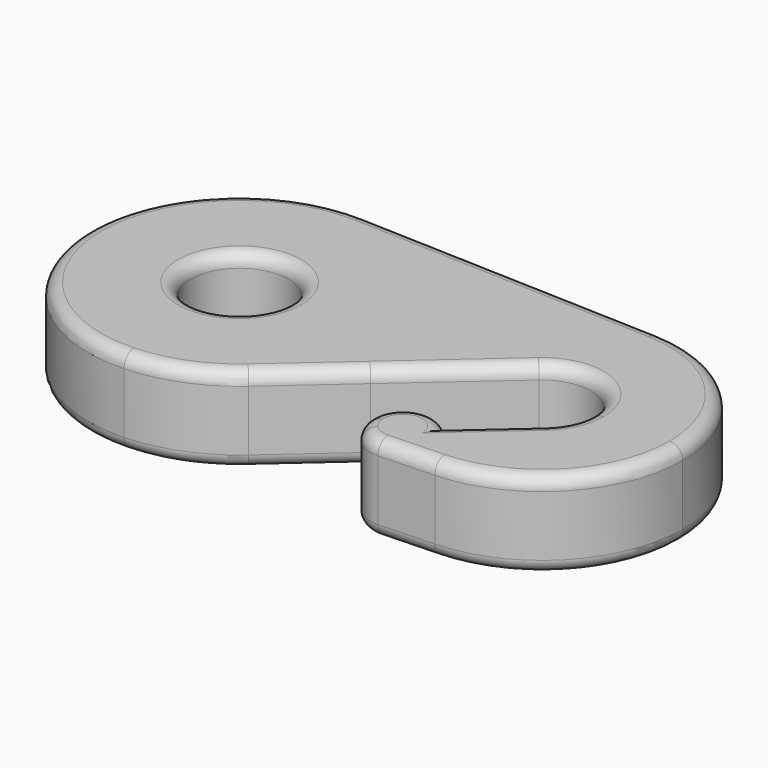
from build123d import *

# Parameters (mm, degrees)
F0_R     = 2.25
F1_DEPTH = 4
F2_R     = 0.6


with BuildPart() as f1:
    # F0 (on Top) → F1 (new body)
    with BuildSketch(Plane.XY):
        with BuildLine():
            ThreePointArc((4.625, -5.2544623892), (6.3786754111, -2.8831406487), (7, 0))
            ThreePointArc((7, 0), (5.0373604199, 4.8605555238), (0.25, 6.9955342898))
            ThreePointArc((0.25, 6.9955342898), (-7, 0), (0.25, -6.9955342898))
            ThreePointArc((0.25, -6.9955342898), (2.5882888345, -6.5039035132), (4.625, -5.2544623892))
        make_face()
        Circle(F0_R, mode=Mode.SUBTRACT)
        with BuildLine():
            ThreePointArc((0.25, 6.9955342898), (5.0373604199, 4.8605555238), (7, 0))
            ThreePointArc((7, 0), (6.3786754111, -2.8831406487), (4.625, -5.2544623892))
            Line((4.625, -5.2544623892), (7.9358887854, -2.3402040888))
            ThreePointArc((7.9358887854, -2.3402040888), (8.7064245412, 3.7720099233), (14.2321428571, 6.4958532691))
            Line((14.2321428571, 6.4958532691), (0.25, 6.9955342898))
        make_face()
        with BuildLine():
            ThreePointArc((20.5, 0), (18.6775489613, 4.5133729864), (14.2321428571, 6.4958532691))
            ThreePointArc((14.2321428571, 6.4958532691), (8.7064245412, 3.7720099233), (7.9358887854, -2.3402040888))
            Line((7.9358887854, -2.3402040888), (12.5133928571, 1.6889343394))
            ThreePointArc((12.5133928571, 1.6889343394), (14.9267237799, 2.050288525), (16.25, 0))
            ThreePointArc((16.25, 0), (16.050288525, -0.9267237799), (15.4866071429, -1.6889343394))
            Line((15.4866071429, -1.6889343394), (12.7508021178, -4.0970014837))
            ThreePointArc((12.7508021178, -4.0970014837), (13.0282229506, -4.5584194121), (13.1248458916, -5.0880729123))
            ThreePointArc((13.1248458916, -5.0880729123), (12.954090315, -5.7831335304), (12.4807002077, -6.3199468464))
            ThreePointArc((12.4807002077, -6.3199468464), (13.3504393706, -6.4674624845), (14.2321428571, -6.4958532691))
            ThreePointArc((14.2321428571, -6.4958532691), (18.6775489613, -4.5133729864), (20.5, 0))
        make_face()
        with BuildLine():
            ThreePointArc((12.7508021178, -4.0970014837), (11.0325218522, -3.7099755891), (10.1309316841, -5.2230556542))
            ThreePointArc((10.1309316841, -5.2230556542), (10.5112266428, -5.4843833256), (10.9091030711, -5.7180727676))
            Line((10.9091030711, -5.7180727676), (12.7508021178, -4.0970014837))
        make_face()
        with BuildLine():
            ThreePointArc((10.9091030711, -5.7180727676), (10.5112266428, -5.4843833256), (10.1309316841, -5.2230556542))
            ThreePointArc((10.1309316841, -5.2230556542), (10.2467485683, -5.6803969517), (10.4988896653, -6.0791443409))
            Line((10.4988896653, -6.0791443409), (10.9091030711, -5.7180727676))
        make_face()
        with BuildLine():
            ThreePointArc((10.4988896653, -6.0791443409), (11.0315406631, -6.4657480939), (11.6784173011, -6.5871159751))
            ThreePointArc((11.6784173011, -6.5871159751), (12.098774814, -6.5112353684), (12.4807002077, -6.3199468464))
            ThreePointArc((12.4807002077, -6.3199468464), (11.6753405511, -6.0700871861), (10.9091030711, -5.7180727676))
            Line((10.9091030711, -5.7180727676), (10.4988896653, -6.0791443409))
        make_face()
        with BuildLine():
            Line((12.7508021178, -4.0970014837), (10.9091030711, -5.7180727676))
            ThreePointArc((10.9091030711, -5.7180727676), (11.6753405511, -6.0700871861), (12.4807002077, -6.3199468464))
            ThreePointArc((12.4807002077, -6.3199468464), (12.954090315, -5.7831335304), (13.1248458916, -5.0880729123))
            ThreePointArc((13.1248458916, -5.0880729123), (13.0282229506, -4.5584194121), (12.7508021178, -4.0970014837))
        make_face()
        with BuildLine():
            ThreePointArc((12.4807002077, -6.3199468464), (12.098774814, -6.5112353684), (11.6784173011, -6.5871159751))
            Line((11.6784173011, -6.5871159751), (14.2321428571, -6.4958532691))
            ThreePointArc((14.2321428571, -6.4958532691), (13.3504393706, -6.4674624845), (12.4807002077, -6.3199468464))
        make_face()
        with BuildLine():
            ThreePointArc((0.25, 6.9955342898), (5.0373604199, 4.8605555238), (7, 0))
            ThreePointArc((7, 0), (6.3786754111, -2.8831406487), (4.625, -5.2544623892))
            Line((4.625, -5.2544623892), (7.9358887854, -2.3402040888))
            ThreePointArc((7.9358887854, -2.3402040888), (8.7064245412, 3.7720099233), (14.2321428571, 6.4958532691))
            Line((14.2321428571, 6.4958532691), (0.25, 6.9955342898))
        make_face()
    extrude(amount=F1_DEPTH)

    # F2
    f2_edges = [f1.edges().sort_by_distance(p)[0] for p in [
        (-6.592193, -2.354355, 0),
        (8.569196, -1.782764, 0),
        (15.688934, 1.486607, 0),
        (14.118705, -2.892968, 0),
        (10.247171, -4.494768, 0),
        (12.95528, -6.541485, 0),
        (20.5, 0, 0),
        (7.241071, 6.745694, 0),
        (-2.25, 0, 0),
        (-6.592193, -2.354355, 4),
        (8.569196, -1.782764, 4),
        (15.688934, 1.486607, 4),
        (14.118705, -2.892968, 4),
        (10.247171, -4.494768, 4),
        (12.95528, -6.541485, 4),
        (20.5, 0, 4),
        (7.241071, 6.745694, 4),
        (-2.25, 0, 4),
    ]]
    fillet(f2_edges, radius=F2_R)


solid = f1.part
